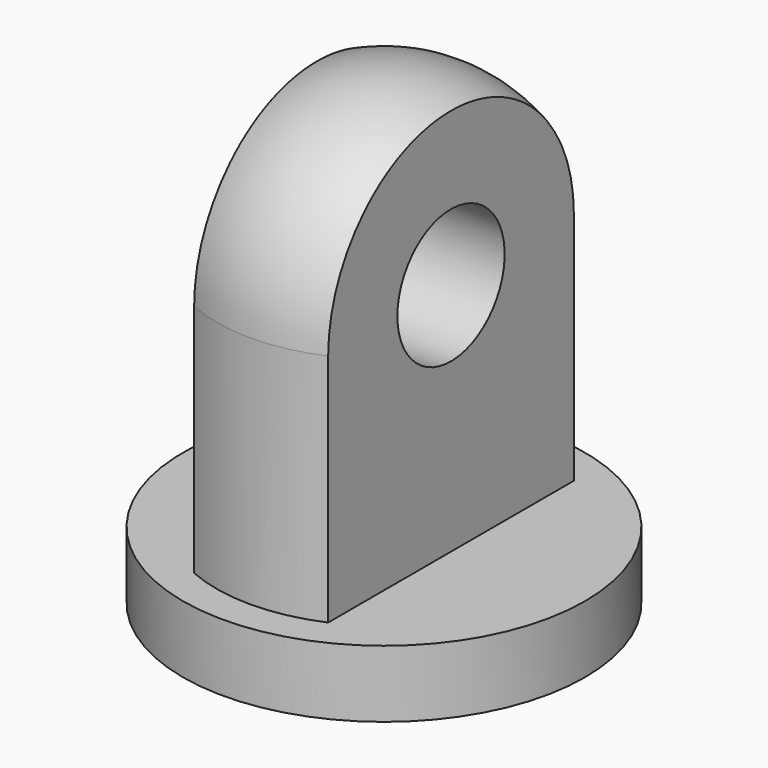
from build123d import *

# Parameters (mm, degrees)
F0_R     = 3
F1_DEPTH = 1
F2_R     = 2.5
F3_DEPTH = 6
F4_R     = 2.5
F5_W     = 1.9698908329
F5_H     = 6.6161441393
F5_W_2   = 2.2700465526
F6_DEPTH = 12.5
F7_R     = 1
F8_DEPTH = 4.001


with BuildPart() as f1:
    # F0 (on Top) → F1 (new body)
    with BuildSketch(Plane.XY):
        Circle(F0_R)
    extrude(amount=F1_DEPTH)

    # F2 (on face) → F3 (join)
    with BuildSketch(Plane.XY.offset(1)):
        Circle(F2_R)
    extrude(amount=F3_DEPTH)

    # F4
    f4_edges = [f1.edges().sort_by_distance(p)[0] for p in [
        (-2.5, 0, 7),
    ]]
    fillet(f4_edges, radius=F4_R)

    # F5 (on Front) → F6 (cut, symmetric)
    with BuildSketch(Plane.XZ):
        with Locations((-1.9849454165, 4.3080720697)):
            Rectangle(F5_W, F5_H)
        with Locations((2.1350232763, 4.3080720697)):
            Rectangle(F5_W_2, F5_H)
    extrude(amount=F6_DEPTH, both=True, mode=Mode.SUBTRACT)

    # F7 (on face) → F8 (cut, through all)
    with BuildSketch(Plane(origin=(-1, 0, 0), x_dir=(0, -1, 0), z_dir=(-1, 0, 0))):
        with Locations((0, 4.5)):
            Circle(F7_R)
    extrude(amount=-F8_DEPTH, mode=Mode.SUBTRACT)


solid = f1.part
